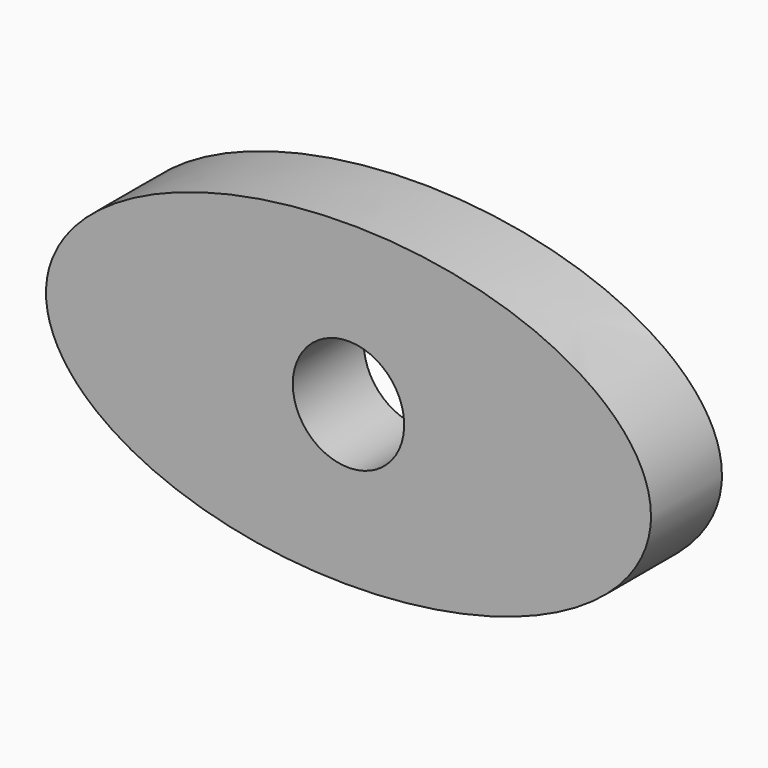
from build123d import *

# Parameters (mm, degrees)
F1_DEPTH = 10.114064
F2_D     = 12.7


with BuildPart() as f1:
    # F0 (on Front) → F1 (new body)
    with BuildSketch(Plane.XZ):
        with BuildLine():
            add(Edge.make_bspline(
                [(34.49542, 0), (34.49542, 31.404857), (-17.24771, 15.702429), (-68.99084, 0), (-17.24771, -15.702429), (34.49542, -31.404857), (34.49542, 0)],
                knots=[0, 0, 0, 2.094395, 2.094395, 4.18879, 4.18879, 6.283185, 6.283185, 6.283185], degree=2, weights=[1, 0.5, 1, 0.5, 1, 0.5, 1]))
        make_face()
        with BuildLine():
            add(Edge.make_bspline(
                [(34.49542, 0), (34.49542, 31.404857), (-17.24771, 15.702429), (-68.99084, 0), (-17.24771, -15.702429), (34.49542, -31.404857), (34.49542, 0)],
                knots=[0, 0, 0, 2.094395, 2.094395, 4.18879, 4.18879, 6.283185, 6.283185, 6.283185], degree=2, weights=[1, 0.5, 1, 0.5, 1, 0.5, 1]))
        make_face()
        with BuildLine():
            add(Edge.make_bspline(
                [(34.49542, 0), (34.49542, 31.404857), (-17.24771, 15.702429), (-68.99084, 0), (-17.24771, -15.702429), (34.49542, -31.404857), (34.49542, 0)],
                knots=[0, 0, 0, 2.094395, 2.094395, 4.18879, 4.18879, 6.283185, 6.283185, 6.283185], degree=2, weights=[1, 0.5, 1, 0.5, 1, 0.5, 1]))
        make_face()
    extrude(amount=F1_DEPTH)

    # F2 (through all)
    with Locations(Plane(origin=(0, 0, 0), x_dir=(1, 0, 0), z_dir=(0, 1, 0))):
        with Locations((0, 0)):
            Hole(F2_D / 2)


solid = f1.part
